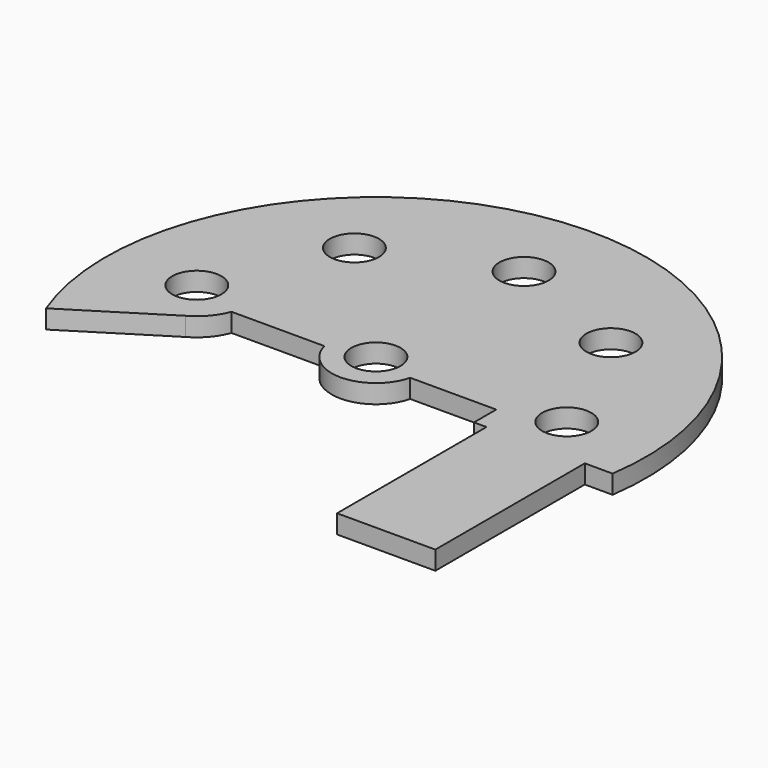
from build123d import *

# Parameters (mm, degrees)
F0_R     = 12.7
F1_DEPTH = 9.652


with BuildPart() as f1:
    # F0 (on Top) → F1 (new body)
    with BuildSketch(Plane.XY):
        with BuildLine():
            Line((-71.649214, 0), (-65.185605, 0))
            Line((-65.185605, 0), (-65.185605, -96.52))
            Line((-65.185605, -96.52), (-14.385605, -96.52))
            Line((-14.385605, -96.52), (-14.385605, 0))
            Line((-14.385605, 0), (0, 0))
            ThreePointArc((0, 0), (-153.784762, 158.779921), (-268.724012, -30.031586))
            Line((-268.724012, -30.031586), (-220.815669, 0))
            ThreePointArc((-220.815669, 0), (-213.330935, 6.066045), (-208.444798, 14.369287))
            Line((-208.444798, 14.369287), (-160.438798, 14.369287))
            ThreePointArc((-160.438798, 14.369287), (-138.269006, -2.915778), (-116.099214, 14.369287))
            Line((-116.099214, 14.369287), (-71.649214, 14.369287))
            Line((-71.649214, 14.369287), (-71.649214, 0))
        make_face()
        with Locations((-233.844798, 23.726932)):
            Circle(F0_R, mode=Mode.SUBTRACT)
        with Locations((-138.269006, 19.944222)):
            Circle(F0_R, mode=Mode.SUBTRACT)
        with Locations((-42.693214, 23.726932)):
            Circle(F0_R, mode=Mode.SUBTRACT)
        with Locations((-204.553327, 88.903846)):
            Circle(F0_R, mode=Mode.SUBTRACT)
        with Locations((-71.984685, 88.903846)):
            Circle(F0_R, mode=Mode.SUBTRACT)
        with Locations((-138.269006, 115.594841)):
            Circle(F0_R, mode=Mode.SUBTRACT)
    extrude(amount=F1_DEPTH)


solid = f1.part
